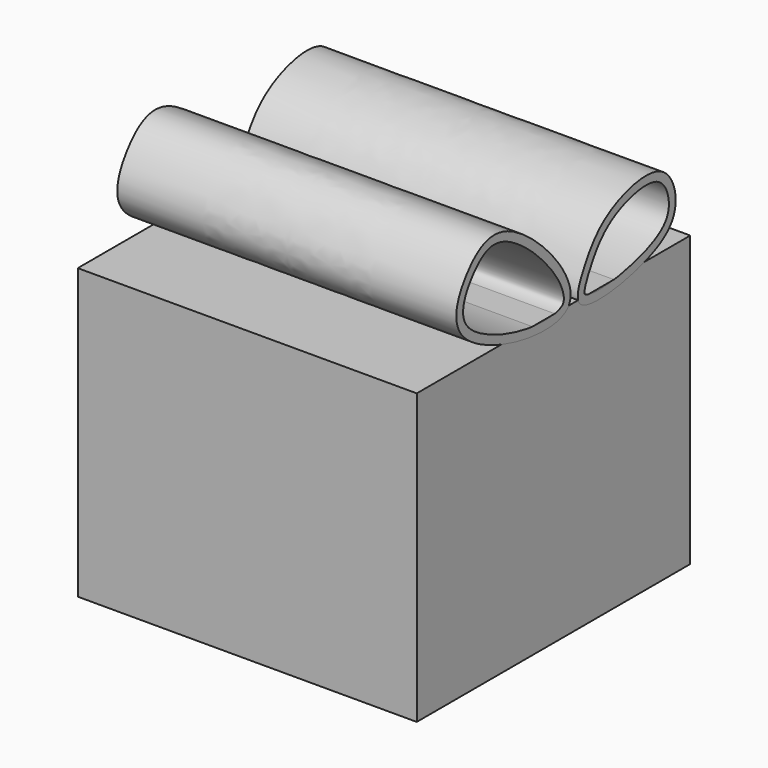
from build123d import *

# Parameters (mm, degrees)
F0_W     = 25.6118457764
F0_H     = 21.6715615243
F2_DEPTH = 25.4
F3_DEPTH = 25.4
F5_DEPTH = 25.4
F7_T     = -0.635
F8_T     = -0.635


with BuildPart() as f2:
    # F0 (on Right) → F2 (new body)
    with BuildSketch(Plane.YZ):
        with Locations((2.7907509357, -1.9287774339)):
            Rectangle(F0_W, F0_H)
    extrude(amount=F2_DEPTH)


with BuildPart() as f3:
    # F1 (on Right) → F3 (new body)
    with BuildSketch(Plane.YZ):
        with BuildLine():
            add(Edge.make_bspline(
                [(4.2136316188, 8.9070033282), (5.2935795792, 10.4919461084), (-1.3555377635, 17.8607368612), (-5.4459300601, 15.4761674557), (-8.0517569971, 9.6811419469), (3.0776302522, 7.2397959902), (4.2136316188, 8.9070033282)],
                knots=[0, 0, 0, 0, 0.2944452308, 0.4896865614, 0.6902719419, 1, 1, 1, 1], degree=3))
        make_face()
    extrude(amount=F3_DEPTH)

    # F8
    f8_openings = [f3.faces().sort_by_distance(p)[0] for p in [
        (25.4, -1.151764, 12.011421),
        (0, -1.151764, 12.011421),
    ]]
    offset(amount=F8_T, openings=f8_openings, kind=Kind.INTERSECTION)


with BuildPart() as f5:
    # F4 (on face) → F5 (new body)
    with BuildSketch(Plane.YZ):
        with BuildLine():
            add(Edge.make_bspline(
                [(5.2957590669, 9.8436884582), (4.7815324939, 10.327226453), (5.7340432111, 12.4667739571), (7.6707529357, 15.2182754562), (13.3232593959, 16.5692283812), (14.828232512, 12.3344833298), (12.1238035013, 9.8722782318), (6.1509417623, 9.039542295), (5.2957590669, 9.8436884582)],
                knots=[0, 0, 0, 0, 0.1292467129, 0.2917185614, 0.4775120133, 0.6272887936, 0.7850567083, 1, 1, 1, 1], degree=3))
        make_face()
    extrude(amount=F5_DEPTH)


with BuildPart() as f5_1:
    # F6: moved
    add(f5.part.moved(Location((0, 0, -1.27))))

    # F7
    f7_openings = [f5_1.faces().sort_by_distance(p)[0] for p in [
        (0, 9.801206, 11.224016),
        (25.4, 9.801206, 11.224016),
    ]]
    offset(amount=F7_T, openings=f7_openings, kind=Kind.INTERSECTION)


solid = Compound([f2.part, f3.part, f5_1.part])
